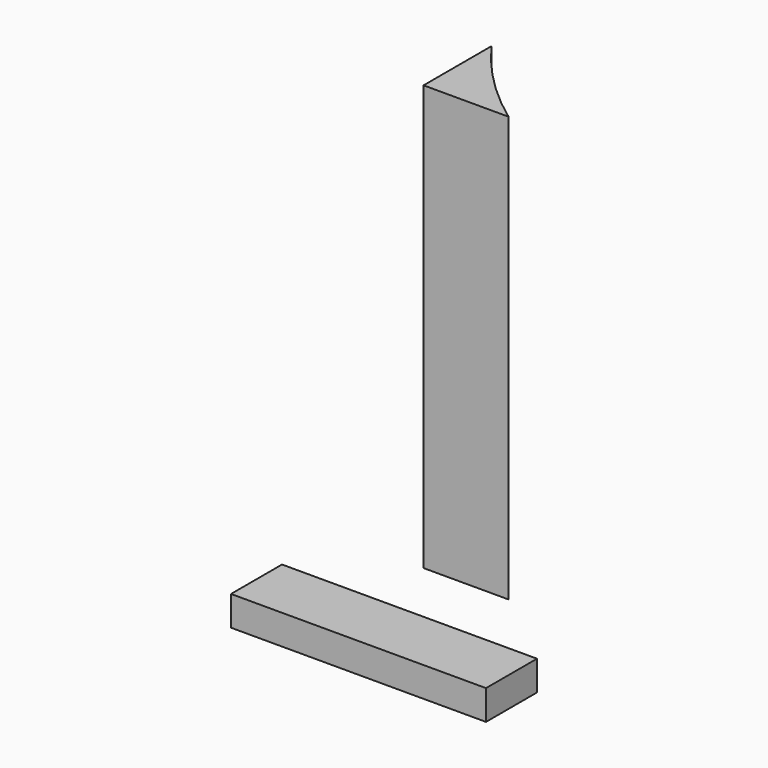
from build123d import *

# Parameters (mm, degrees)
F1_DEPTH = 100
F2_W     = 60
F2_H     = 15
F3_DEPTH = 7


with BuildPart() as f1:
    # F0 (on Top) → F1 (new body)
    with BuildSketch(Plane.XY):
        with BuildLine():
            Line((-10, 10), (-10, -10))
            Line((-10, -10), (10, -10))
            ThreePointArc((10, -10), (-0.807612, -0.807612), (-10, 10))
        make_face()
    extrude(amount=F1_DEPTH)


with BuildPart() as f3:
    # F2 (on Top) → F3 (new body)
    with BuildSketch(Plane.XY):
        with Locations((7.198458, -43.130983)):
            Rectangle(F2_W, F2_H)
    extrude(amount=F3_DEPTH)


solid = Compound([f1.part, f3.part])
